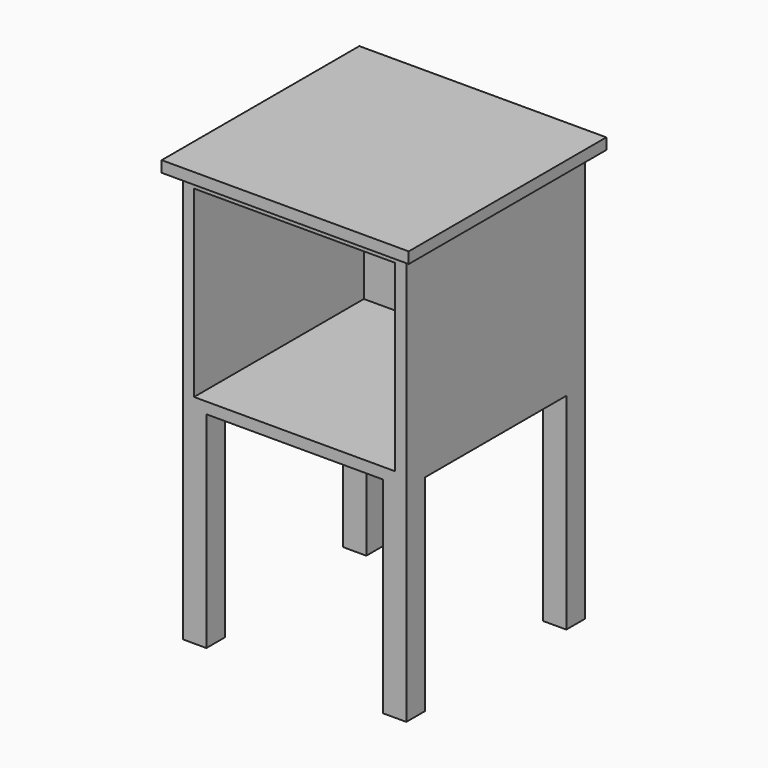
from build123d import *

# Parameters (mm, degrees)
F0_W     = 380
F0_H     = 380
F1_DEPTH = 350
F2_W     = 342
F2_H     = 312
F3_DEPTH = 361
F4_W     = 40
F4_H     = 40
F5_DEPTH = 350
F6_W     = 420
F6_H     = 420
F7_DEPTH = 19


with BuildPart() as f1:
    # F0 (on Top) → F1 (new body)
    with BuildSketch(Plane.XY):
        Rectangle(F0_W, F0_H)
    extrude(amount=F1_DEPTH)

    # F2 (on face) → F3 (cut)
    with BuildSketch(Plane.XZ.offset(190)):
        with Locations((0, 175)):
            Rectangle(F2_W, F2_H)
    extrude(amount=-F3_DEPTH, mode=Mode.SUBTRACT)

    # F4 (on face) → F5 (join)
    with BuildSketch(Plane(origin=(0, 0, 0), x_dir=(1, 0, 0), z_dir=(0, 0, -1))):
        with Locations((-170, 170)):
            Rectangle(F4_W, F4_H)
        with Locations((170, 170)):
            Rectangle(F4_W, F4_H)
        with Locations((170, -170)):
            Rectangle(F4_W, F4_H)
        with Locations((-170, -170)):
            Rectangle(F4_W, F4_H)
    extrude(amount=F5_DEPTH)

    # F6 (on face) → F7 (join)
    with BuildSketch(Plane.XY.offset(350)):
        Rectangle(F6_W, F6_H)
    extrude(amount=F7_DEPTH)


solid = f1.part
